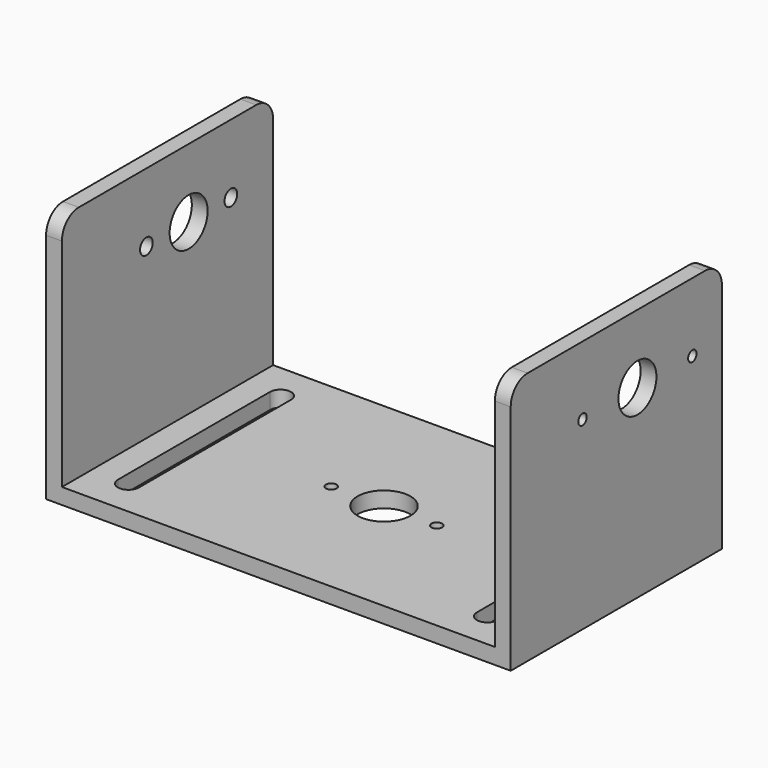
from build123d import *

# Parameters (mm, degrees)
SKETCH_W        = 88
SKETCH_H        = 50
PAD_DEPTH       = 3
SKETCH001_R     = 5
POCKET_DEPTH    = 5
SKETCH002_W     = 3
SKETCH002_H     = 50
PAD001_DEPTH    = 45
SKETCH003_R     = 4.5
POCKET001_DEPTH = 90
FILLET_R        = 4
FILLET001_R     = 4
FILLET002_R     = 4
FILLET003_R     = 4
POCKET002_DEPTH = 5
SKETCH005_R     = 1.5
POCKET003_DEPTH = 5
SKETCH006_R     = 1
POCKET004_DEPTH = 5
SKETCH007_R     = 1
POCKET005_DEPTH = 5


with BuildPart() as part:
    # Sketch → Pad (new body)
    with BuildSketch(Plane.XY):
        with Locations((44, 25)):
            Rectangle(SKETCH_W, SKETCH_H)
    extrude(amount=PAD_DEPTH)

    # Sketch001 → Pocket (cut)
    with BuildSketch(Plane.XY.offset(3)):
        with Locations((44, 25)):
            Circle(SKETCH001_R)
    extrude(amount=-POCKET_DEPTH, mode=Mode.SUBTRACT)

    # Sketch002 → Pad001 (new body)
    with BuildSketch(Plane.XY.offset(3)):
        with Locations((1.5, 25)):
            Rectangle(SKETCH002_W, SKETCH002_H)
        with Locations((86.5, 25)):
            Rectangle(SKETCH002_W, SKETCH002_H)
    extrude(amount=PAD001_DEPTH)

    # Sketch003 → Pocket001 (cut)
    with BuildSketch(Plane(origin=(0, 0, 0), x_dir=(0, -1, 0), z_dir=(-1, 0, 0))):
        with Locations((-30, 35)):
            Circle(SKETCH003_R)
    extrude(amount=-POCKET001_DEPTH, mode=Mode.SUBTRACT)

    # Fillet
    fillet_edges = [part.edges().sort_by_distance(p)[0] for p in [
        (1.5, 0, 48),
    ]]
    fillet(fillet_edges, radius=FILLET_R)

    # Fillet001
    fillet001_edges = [part.edges().sort_by_distance(p)[0] for p in [
        (86.5, 0, 48),
    ]]
    fillet(fillet001_edges, radius=FILLET001_R)

    # Fillet002
    fillet002_edges = [part.edges().sort_by_distance(p)[0] for p in [
        (1.5, 50, 48),
    ]]
    fillet(fillet002_edges, radius=FILLET002_R)

    # Fillet003
    fillet003_edges = [part.edges().sort_by_distance(p)[0] for p in [
        (86.5, 50, 48),
    ]]
    fillet(fillet003_edges, radius=FILLET003_R)

    # Sketch004 → Pocket002 (cut)
    with BuildSketch(Plane.XY.offset(3)):
        with BuildLine():
            ThreePointArc((12, 43), (10, 45), (8, 43))
            Line((8, 43), (8, 7))
            ThreePointArc((8, 7), (10, 5), (12, 7))
            Line((12, 43), (12, 7))
        make_face()
        with BuildLine():
            ThreePointArc((80, 43), (78, 45), (76, 43))
            Line((76, 43), (76, 7))
            ThreePointArc((76, 7), (78, 5), (80, 7))
            Line((80, 43), (80, 7))
        make_face()
    extrude(amount=-POCKET002_DEPTH, mode=Mode.SUBTRACT)

    # Sketch005 → Pocket003 (cut)
    with BuildSketch(Plane(origin=(0, 0, 0), x_dir=(0, -1, 0), z_dir=(-1, 0, 0))):
        with Locations((-40, 35)):
            Circle(SKETCH005_R)
        with Locations((-20, 35)):
            Circle(SKETCH005_R)
    extrude(amount=-POCKET003_DEPTH, mode=Mode.SUBTRACT)

    # Sketch006 → Pocket004 (cut)
    with BuildSketch(Plane.YZ.offset(88)):
        with Locations((17, 35)):
            Circle(SKETCH006_R)
        with Locations((43, 35)):
            Circle(SKETCH006_R)
    extrude(amount=-POCKET004_DEPTH, mode=Mode.SUBTRACT)

    # Sketch007 → Pocket005 (cut)
    with BuildSketch(Plane.XY.offset(3)):
        with Locations((34, 25)):
            Circle(SKETCH007_R)
        with Locations((54, 25)):
            Circle(SKETCH007_R)
    extrude(amount=-POCKET005_DEPTH, mode=Mode.SUBTRACT)


solid = part.part
